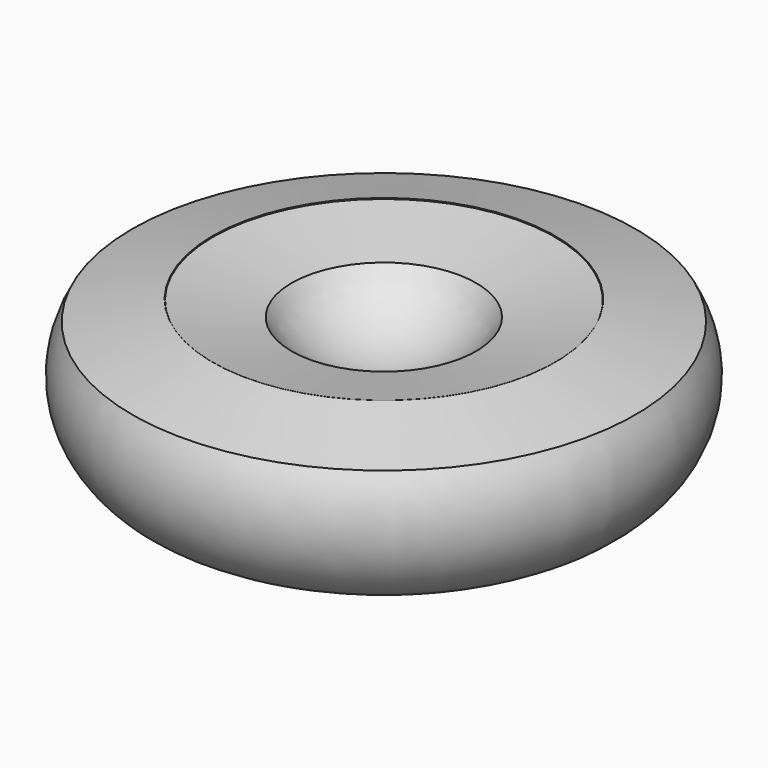
from build123d import *


with BuildPart() as f1:
    # F0 (on Front) → F1 (revolve)
    with BuildSketch(Plane.XZ):
        with BuildLine():
            ThreePointArc((0, 5), (-2.816253, 5.717154), (-4.946503, 7.693925))
            Line((-4.946503, 7.693925), (-9.160915, 8.496184))
            Line((-9.160915, 8.496184), (-9.177719, 8.538442))
            Line((-9.177719, 8.538442), (-13.482897, 7.471099))
            ThreePointArc((-13.482897, 7.471099), (-13.471396, 2.471898), (-9.136664, -0.01853))
            Line((-9.136664, -0.01853), (0, 0))
            Line((0, 0), (0, 5))
        make_face()
    revolve(axis=Axis((0, 0, 2.5), (0, 0, 1)))


solid = f1.part
